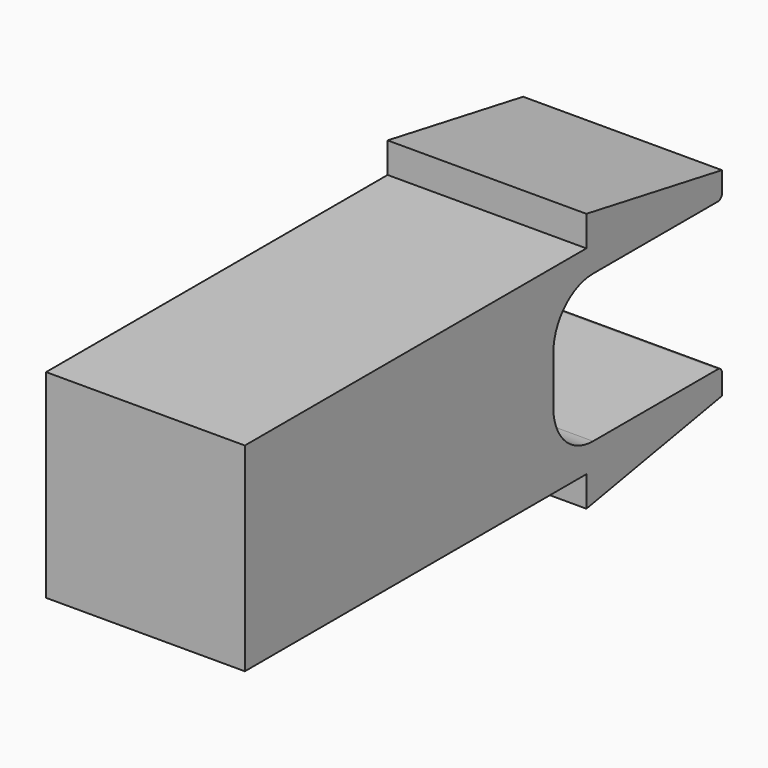
from build123d import *

# Parameters (mm, degrees)
F1_DEPTH = 25.4


with BuildPart() as f1:
    # F0 (on Right) → F1 (new body)
    with BuildSketch(Plane.YZ):
        with BuildLine():
            Line((16.450379, 12.7), (-38.1, 12.7))
            Line((-38.1, 12.7), (-38.1, -12.7))
            Line((-38.1, -12.7), (16.450379, -12.7))
            Line((16.450379, -12.7), (38.1, -12.7))
            Line((38.1, -12.7), (38.1, -10.063089))
            ThreePointArc((38.1, -10.063089), (37.914013, -9.614076), (37.465, -9.428089))
            Line((37.465, -9.428089), (17.518706, -9.428089))
            ThreePointArc((17.518706, -9.428089), (13.028578, -7.568217), (11.168706, -3.078089))
            Line((11.168706, -3.078089), (11.168706, 3.078089))
            ThreePointArc((11.168706, 3.078089), (13.028578, 7.568217), (17.518706, 9.428089))
            Line((17.518706, 9.428089), (37.465, 9.428089))
            ThreePointArc((37.465, 9.428089), (37.914013, 9.614076), (38.1, 10.063089))
            Line((38.1, 10.063089), (38.1, 12.7))
            Line((38.1, 12.7), (16.450379, 12.7))
        make_face()
        Polygon((16.450379, 16.587621), (16.450379, 12.7), (38.1, 12.7), align=None)
        Polygon((38.1, -12.7), (16.450379, -12.7), (16.450379, -16.587621), align=None)
    extrude(amount=F1_DEPTH)


solid = f1.part
